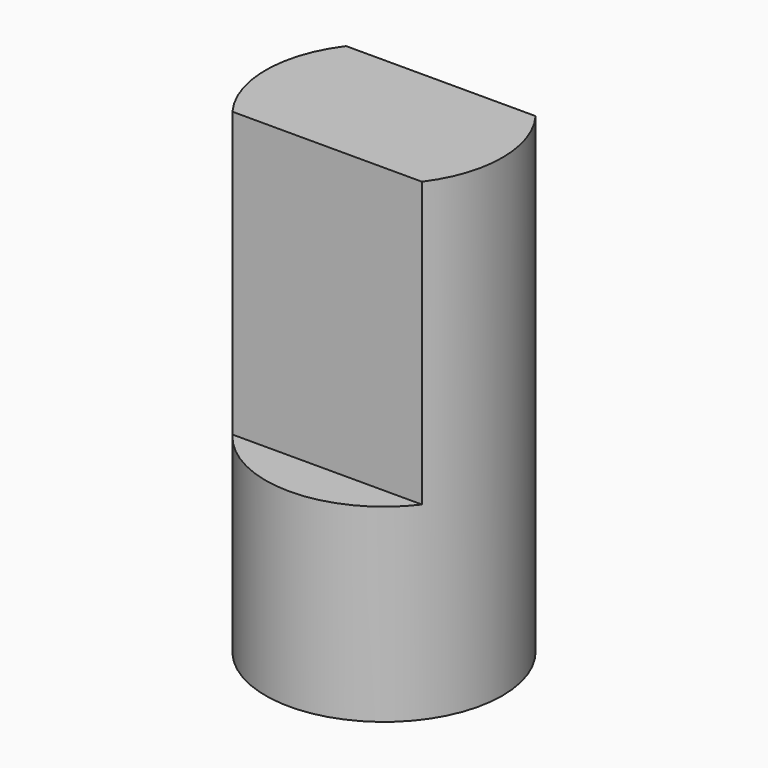
from build123d import *

# Parameters (mm, degrees)
BOX005_W               = 1
BOX005_H               = 5
BOX005_DEPTH           = 6
BOX005_PLACEMENT_ANGLE = 90
BOX004_W               = 1
BOX004_H               = 5
BOX004_DEPTH           = 6
BOX004_PLACEMENT_ANGLE = 90
CYLINDER011_R          = 2.5
CYLINDER011_DEPTH      = 10


with BuildPart() as cubo005:
    # Box005 → Box005 (new body)
    with BuildSketch(Plane.XY):
        with Locations((0.5, 2.5)):
            Rectangle(BOX005_W, BOX005_H)
    extrude(amount=BOX005_DEPTH)


with BuildPart() as cubo005_1:
    # Box005 placement: moved
    add(cubo005.part.moved(Location((2.5, -2.5, 4))).rotate(Axis((2.5, -2.5, 4), (0, 0, 1)), BOX005_PLACEMENT_ANGLE))


with BuildPart() as fusion007005:
    # Box004 → Box004 (new body)
    with BuildSketch(Plane.XY):
        with Locations((0.5, 2.5)):
            Rectangle(BOX004_W, BOX004_H)
    extrude(amount=BOX004_DEPTH)


with BuildPart() as fusion007005_1:
    # Box004 placement: moved
    add(fusion007005.part.moved(Location((2.5, 1.5, 4))).rotate(Axis((2.5, 1.5, 4), (0, 0, 1)), BOX004_PLACEMENT_ANGLE))

    # Fusion007005: union Cubo005
    add(cubo005_1.part)


with BuildPart() as axis_final:
    # Cylinder011 → Cylinder011 (new body)
    with BuildSketch(Plane.XY):
        Circle(CYLINDER011_R)
    extrude(amount=CYLINDER011_DEPTH)

    # Cut004: cut Fusion007005
    add(fusion007005_1.part, mode=Mode.SUBTRACT)


with BuildPart() as axis_final_1:
    # Cut004 placement: moved
    add(axis_final.part.moved(Location((0, 8, 19))))


solid = axis_final_1.part
